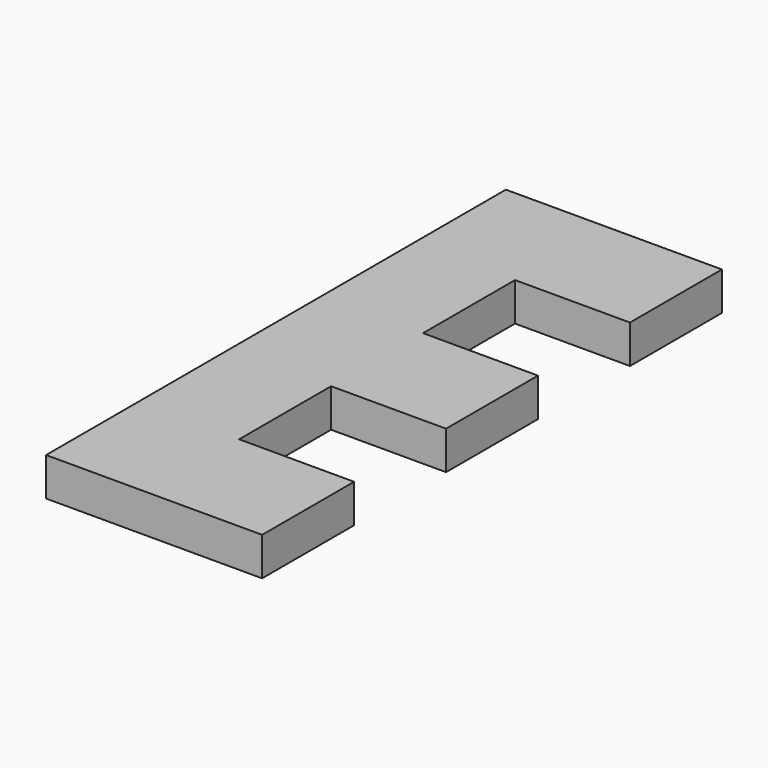
from build123d import *

# Parameters (mm, degrees)
F1_DEPTH = 2.54


with BuildPart() as f1:
    # F0 (on Top) → F1 (new body, symmetric)
    with BuildSketch(Plane.XY):
        Polygon((0, 45.811806), (-28.644443, 45.811806), (-28.644443, -30.388194), (0, -30.388194), (0, -15.148194), (-15.24, -15.148194), (-15.24, 0.091806), (0, 0.091806), (0, 15.331806), (-15.24, 15.331806), (-15.24, 30.571806), (0, 30.571806), align=None)
    extrude(amount=F1_DEPTH, both=True)


solid = f1.part
